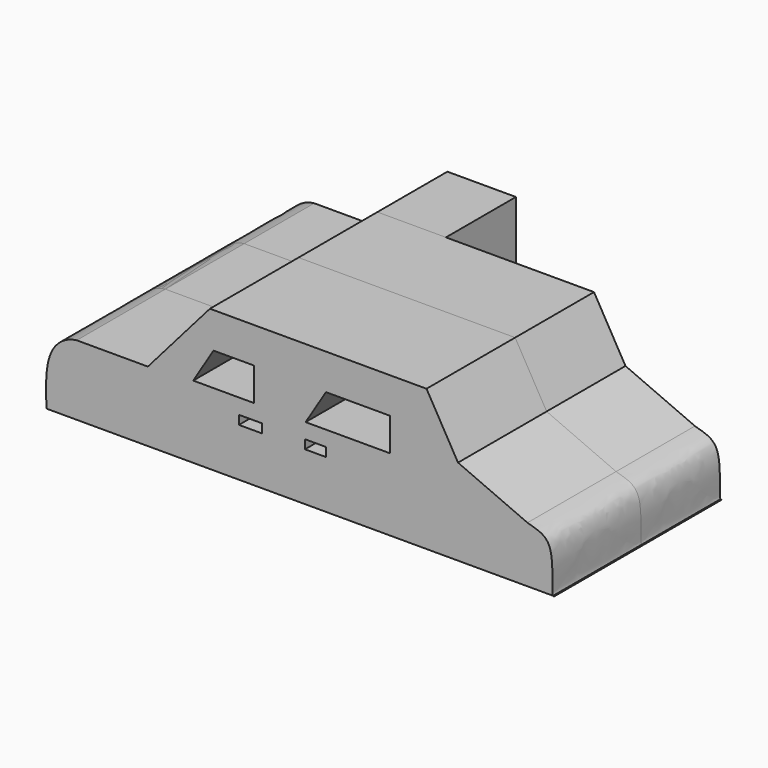
from build123d import *

# Parameters (mm, degrees)
F0_W     = 5.2435156212
F0_H     = 2.0391447165
F1_DEPTH = 42.672
F2_DEPTH = 25.4
F0_W_2   = 4.8065559119
F3_DEPTH = 25.4
F4_DEPTH = 22.606


with BuildPart() as f1:
    # F0 (on Front) → F1 (new body)
    with BuildSketch(Plane.XZ):
        with BuildLine():
            Line((-40.8382713795, 16.0505380481), (-57.1493841708, 16.0505380481))
            add(Edge.make_bspline(
                [(-57.1493841708, 16.0505380481), (-59.4823244884, 15.7999000631), (-64.3613269577, 12.5534159504), (-64.3011848306, 4.8867385699), (-64.0834696427, 0)],
                knots=[0, 0, 0, 0, 0.425876757, 1, 1, 1, 1], degree=3))
            Line((-64.0834696427, 0), (-46.5223775801, 0))
            Line((-46.5223775801, 0), (-40.8382713795, 0))
            Line((-40.8382713795, 0), (-28.3736717173, 0))
            Line((-28.3736717173, 0), (-10.8899986371, 0))
            Line((-10.8899986371, 0), (-10.8899986371, 32.3616489768))
            Line((-10.8899986371, 32.3616489768), (-26.6098044863, 32.3616489768))
            Line((-26.6098044863, 32.3616489768), (-40.8382713795, 16.0505380481))
        make_face()
        with Locations((-17.3327269753, 12.0892126892)):
            Rectangle(F0_W, F0_H, mode=Mode.SUBTRACT)
        Polygon((-30.4415124678, 16.6044600514), (-25.7806094957, 24.1784253785), (-16.4588071117, 24.1784253785), (-16.4588071117, 16.6044600514), align=None, mode=Mode.SUBTRACT)
    extrude(amount=-F1_DEPTH)



with BuildPart() as f2:
    # F0 (on Front) → F2 (new body)
    with BuildSketch(Plane.XZ):
        with BuildLine():
            Line((52.4034920648, 0), (52.079555398, 0))
            add(Edge.make_bspline(
                [(52.079555398, 0), (52.1599144336, -0.1209623113), (52.2809419908, -0.0594935416), (52.4034920648, 0)],
                knots=[0.907092084, 0.907092084, 0.907092084, 0.907092084, 1, 1, 1, 1], degree=3))
        make_face()
    extrude(amount=F2_DEPTH)


with BuildPart() as f1_1:
    add(f1.part)

    add(f2.part)  # F2#2 merges F2
    # F0 (on Front) → F2, piece 2 (join)
    with BuildSketch(Plane.XZ):
        with BuildLine():
            Line((-40.8382713795, 16.0505380481), (-57.1493841708, 16.0505380481))
            add(Edge.make_bspline(
                [(-57.1493841708, 16.0505380481), (-59.4823244884, 15.7999000631), (-64.3613269577, 12.5534159504), (-64.3011848306, 4.8867385699), (-64.0834696427, 0)],
                knots=[0, 0, 0, 0, 0.425876757, 1, 1, 1, 1], degree=3))
            Line((-64.0834696427, 0), (-46.5223775801, 0))
            Line((-46.5223775801, 0), (-40.8382713795, 0))
            Line((-40.8382713795, 0), (-28.3736717173, 0))
            Line((-28.3736717173, 0), (-10.8899986371, 0))
            Line((-10.8899986371, 0), (-10.8899986371, 32.3616489768))
            Line((-10.8899986371, 32.3616489768), (-26.6098044863, 32.3616489768))
            Line((-26.6098044863, 32.3616489768), (-40.8382713795, 16.0505380481))
        make_face()
        with Locations((-17.3327269753, 12.0892126892)):
            Rectangle(F0_W, F0_H, mode=Mode.SUBTRACT)
        Polygon((-30.4415124678, 16.6044600514), (-25.7806094957, 24.1784253785), (-16.4588071117, 24.1784253785), (-16.4588071117, 16.6044600514), align=None, mode=Mode.SUBTRACT)
        with BuildLine():
            Line((23.0692047626, 32.3616489768), (-10.8899986371, 32.3616489768))
            Line((-10.8899986371, 32.3616489768), (-10.8899986371, 0))
            Line((-10.8899986371, 0), (0, 0))
            Line((0, 0), (31.5807702102, 0))
            Line((31.5807702102, 0), (52.079555398, 0))
            add(Edge.make_bspline(
                [(46.2113042618, 12.8407497437), (48.2538589952, 12.1899452229), (53.0283884486, 11.5917736788), (51.6397257395, 0.6620638447), (52.079555398, 0)],
                knots=[0, 0, 0, 0, 0.3985785526, 0.907092084, 0.907092084, 0.907092084, 0.907092084], degree=3))
            Line((46.2113042618, 12.8407497437), (30.2888769656, 19.7940729558))
            Line((30.2888769656, 19.7940729558), (23.0692047626, 32.3616489768))
        make_face()
        with Locations((-2.4032779559, 12.0892126892)):
            Rectangle(F0_W_2, F0_H, mode=Mode.SUBTRACT)
        Polygon((0, 24.1784253785), (14.7109700548, 24.1784253785), (14.7109700548, 16.6044600514), (-4.6609029722, 16.6044600514), align=None, mode=Mode.SUBTRACT)
    extrude(amount=F2_DEPTH)


with BuildPart() as f3:
    # F0 (on Front) → F3 (new body)
    with BuildSketch(Plane.XZ):
        with BuildLine():
            Line((52.4034920648, 0), (52.079555398, 0))
            add(Edge.make_bspline(
                [(52.079555398, 0), (52.1599144336, -0.1209623113), (52.2809419908, -0.0594935416), (52.4034920648, 0)],
                knots=[0.907092084, 0.907092084, 0.907092084, 0.907092084, 1, 1, 1, 1], degree=3))
        make_face()
    extrude(amount=F3_DEPTH)


with BuildPart() as f3b:
    # F0 (on Front) → F3, piece 2 (new body)
    with BuildSketch(Plane.XZ):
        with BuildLine():
            Line((-40.8382713795, 16.0505380481), (-57.1493841708, 16.0505380481))
            add(Edge.make_bspline(
                [(-57.1493841708, 16.0505380481), (-59.4823244884, 15.7999000631), (-64.3613269577, 12.5534159504), (-64.3011848306, 4.8867385699), (-64.0834696427, 0)],
                knots=[0, 0, 0, 0, 0.425876757, 1, 1, 1, 1], degree=3))
            Line((-64.0834696427, 0), (-46.5223775801, 0))
            Line((-46.5223775801, 0), (-40.8382713795, 0))
            Line((-40.8382713795, 0), (-28.3736717173, 0))
            Line((-28.3736717173, 0), (-10.8899986371, 0))
            Line((-10.8899986371, 0), (-10.8899986371, 32.3616489768))
            Line((-10.8899986371, 32.3616489768), (-26.6098044863, 32.3616489768))
            Line((-26.6098044863, 32.3616489768), (-40.8382713795, 16.0505380481))
        make_face()
        with Locations((-17.3327269753, 12.0892126892)):
            Rectangle(F0_W, F0_H, mode=Mode.SUBTRACT)
        Polygon((-30.4415124678, 16.6044600514), (-25.7806094957, 24.1784253785), (-16.4588071117, 24.1784253785), (-16.4588071117, 16.6044600514), align=None, mode=Mode.SUBTRACT)
        with BuildLine():
            Line((23.0692047626, 32.3616489768), (-10.8899986371, 32.3616489768))
            Line((-10.8899986371, 32.3616489768), (-10.8899986371, 0))
            Line((-10.8899986371, 0), (0, 0))
            Line((0, 0), (31.5807702102, 0))
            Line((31.5807702102, 0), (52.079555398, 0))
            add(Edge.make_bspline(
                [(46.2113042618, 12.8407497437), (48.2538589952, 12.1899452229), (53.0283884486, 11.5917736788), (51.6397257395, 0.6620638447), (52.079555398, 0)],
                knots=[0, 0, 0, 0, 0.3985785526, 0.907092084, 0.907092084, 0.907092084, 0.907092084], degree=3))
            Line((46.2113042618, 12.8407497437), (30.2888769656, 19.7940729558))
            Line((30.2888769656, 19.7940729558), (23.0692047626, 32.3616489768))
        make_face()
        with Locations((-2.4032779559, 12.0892126892)):
            Rectangle(F0_W_2, F0_H, mode=Mode.SUBTRACT)
        Polygon((0, 24.1784253785), (14.7109700548, 24.1784253785), (14.7109700548, 16.6044600514), (-4.6609029722, 16.6044600514), align=None, mode=Mode.SUBTRACT)
    extrude(amount=F3_DEPTH)


with BuildPart() as f4:
    # F0 (on Front) → F4 (new body)
    with BuildSketch(Plane.XZ):
        with BuildLine():
            Line((52.4034920648, 0), (52.079555398, 0))
            add(Edge.make_bspline(
                [(52.079555398, 0), (52.1599144336, -0.1209623113), (52.2809419908, -0.0594935416), (52.4034920648, 0)],
                knots=[0.907092084, 0.907092084, 0.907092084, 0.907092084, 1, 1, 1, 1], degree=3))
        make_face()
    extrude(amount=-F4_DEPTH)


with BuildPart() as f4b:
    # F0 (on Front) → F4, piece 2 (new body)
    with BuildSketch(Plane.XZ):
        with BuildLine():
            Line((-40.8382713795, 16.0505380481), (-57.1493841708, 16.0505380481))
            add(Edge.make_bspline(
                [(-57.1493841708, 16.0505380481), (-59.4823244884, 15.7999000631), (-64.3613269577, 12.5534159504), (-64.3011848306, 4.8867385699), (-64.0834696427, 0)],
                knots=[0, 0, 0, 0, 0.425876757, 1, 1, 1, 1], degree=3))
            Line((-64.0834696427, 0), (-46.5223775801, 0))
            Line((-46.5223775801, 0), (-40.8382713795, 0))
            Line((-40.8382713795, 0), (-28.3736717173, 0))
            Line((-28.3736717173, 0), (-10.8899986371, 0))
            Line((-10.8899986371, 0), (-10.8899986371, 32.3616489768))
            Line((-10.8899986371, 32.3616489768), (-26.6098044863, 32.3616489768))
            Line((-26.6098044863, 32.3616489768), (-40.8382713795, 16.0505380481))
        make_face()
        with Locations((-17.3327269753, 12.0892126892)):
            Rectangle(F0_W, F0_H, mode=Mode.SUBTRACT)
        Polygon((-30.4415124678, 16.6044600514), (-25.7806094957, 24.1784253785), (-16.4588071117, 24.1784253785), (-16.4588071117, 16.6044600514), align=None, mode=Mode.SUBTRACT)
        with BuildLine():
            Line((23.0692047626, 32.3616489768), (-10.8899986371, 32.3616489768))
            Line((-10.8899986371, 32.3616489768), (-10.8899986371, 0))
            Line((-10.8899986371, 0), (0, 0))
            Line((0, 0), (31.5807702102, 0))
            Line((31.5807702102, 0), (52.079555398, 0))
            add(Edge.make_bspline(
                [(46.2113042618, 12.8407497437), (48.2538589952, 12.1899452229), (53.0283884486, 11.5917736788), (51.6397257395, 0.6620638447), (52.079555398, 0)],
                knots=[0, 0, 0, 0, 0.3985785526, 0.907092084, 0.907092084, 0.907092084, 0.907092084], degree=3))
            Line((46.2113042618, 12.8407497437), (30.2888769656, 19.7940729558))
            Line((30.2888769656, 19.7940729558), (23.0692047626, 32.3616489768))
        make_face()
        with Locations((-2.4032779559, 12.0892126892)):
            Rectangle(F0_W_2, F0_H, mode=Mode.SUBTRACT)
        Polygon((0, 24.1784253785), (14.7109700548, 24.1784253785), (14.7109700548, 16.6044600514), (-4.6609029722, 16.6044600514), align=None, mode=Mode.SUBTRACT)
    extrude(amount=-F4_DEPTH)


solid = Compound([f1_1.part, f3.part, f3b.part, f4.part, f4b.part])
